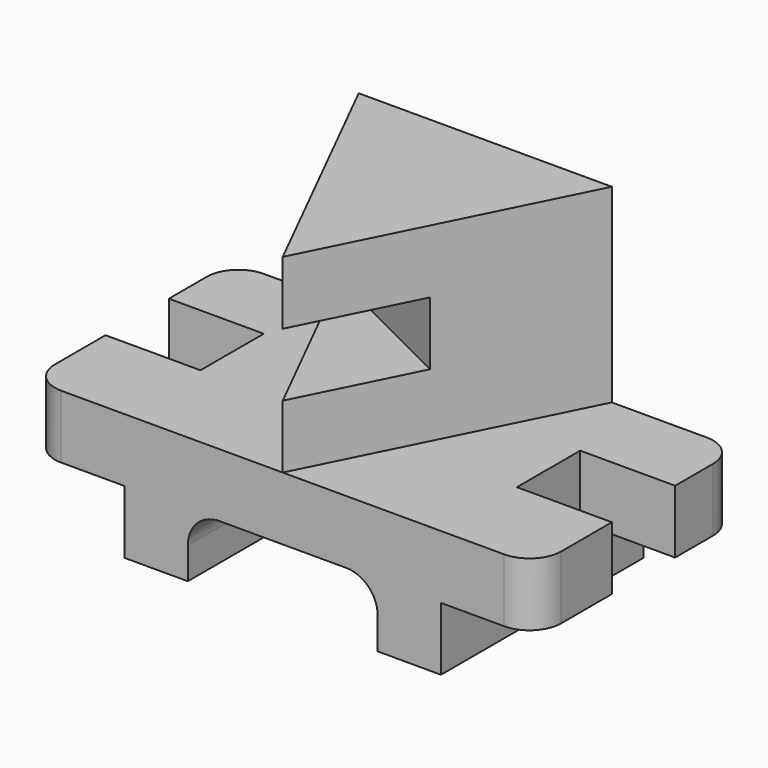
from build123d import *

# Parameters (mm, degrees)
F0_W     = 25.4
F0_H     = 25.4
F1_DEPTH = 50.8
F2_W     = 38.1
F2_H     = 31.75
F3_DEPTH = 50.801
F4_R     = 12.7
F5_R     = 12.7
F7_DEPTH = 76.2
F8_W     = 50.8
F8_H     = 25.4
F9_DEPTH = 136.3117039084


with BuildPart() as f1:
    # F0 (on Front) → F1 (new body, symmetric)
    with BuildSketch(Plane.XZ):
        with Locations((-10.1491656572, 12.7)):
            Rectangle(F0_W, F0_H)
        with Locations((91.4508343428, 12.7)):
            Rectangle(F0_W, F0_H)
        Polygon((-22.8491656572, 25.4), (2.5508343428, 25.4), (78.7508343428, 25.4), (104.1508343428, 25.4), (127, 25.4), (142.2508343428, 25.4), (142.2508343428, 50.8), (-60.9491656572, 50.8), (-60.9491656572, 25.4), align=None)
    extrude(amount=F1_DEPTH, both=True)

    # F2 (on face) → F3 (cut, through all)
    with BuildSketch(Plane.XY.offset(50.8)):
        with Locations((-41.8991656572, 3.175)):
            Rectangle(F2_W, F2_H)
        with Locations((123.2008343428, 3.175)):
            Rectangle(F2_W, F2_H)
    extrude(amount=-F3_DEPTH, mode=Mode.SUBTRACT)

    # F4
    f4_edges = [f1.edges().sort_by_distance(p)[0] for p in [
        (142.250834, -50.8, 38.1),
        (142.250834, 50.8, 38.1),
        (-60.949166, -50.8, 38.1),
        (-60.949166, 50.8, 38.1),
    ]]
    fillet(f4_edges, radius=F4_R)

    # F5
    f5_edges = [f1.edges().sort_by_distance(p)[0] for p in [
        (2.550834, 0, 25.4),
        (78.750834, 0, 25.4),
    ]]
    fillet(f5_edges, radius=F5_R)

    # F6 (on face) → F7 (join)
    with BuildSketch(Plane.XY.offset(50.8)):
        Polygon((91.4508343428, 50.8), (40.6508343428, 50.8), (-10.1491656572, 50.8), (40.6508343428, -50.8), align=None)
    extrude(amount=F7_DEPTH)

    # F8 (on face) → F9 (cut, through all)
    with BuildSketch(Plane(origin=(52.8406674742, -26.4203337371, 0), x_dir=(0.4472135955, 0.894427191, 0), z_dir=(0.894427191, -0.4472135955, 0))):
        with Locations((-1.8572955163, 88.9)):
            Rectangle(F8_W, F8_H)
    extrude(amount=-F9_DEPTH, mode=Mode.SUBTRACT)


solid = f1.part
